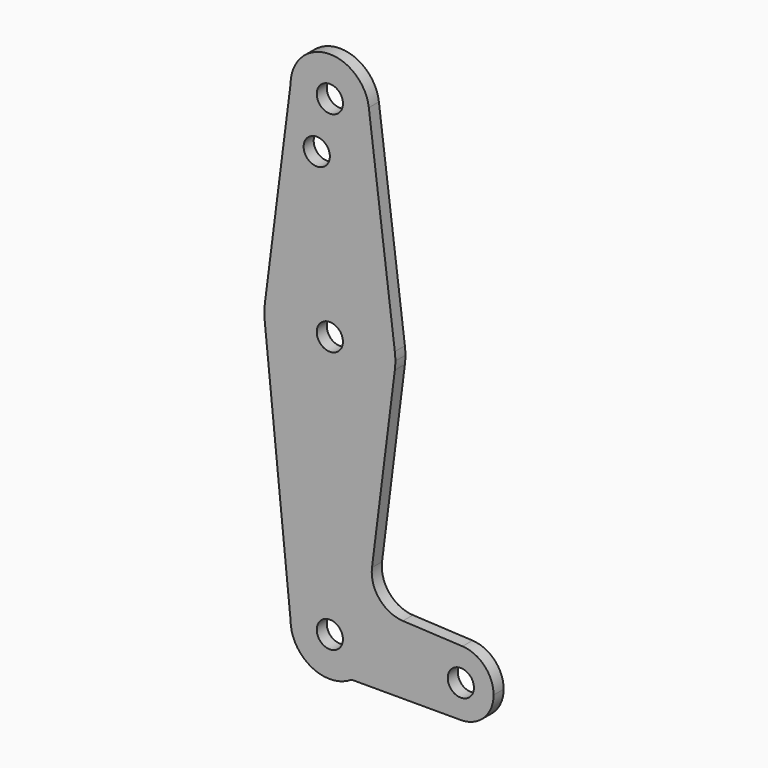
from build123d import *

# Parameters (mm, degrees)
F0_R     = 3.175
F1_DEPTH = 3.048


with BuildPart() as f1:
    # F0 (on Front) → F1 (new body)
    with BuildSketch(Plane.XZ):
        with BuildLine():
            ThreePointArc((-2.38125, 105.077459), (5.832847, 106.769826), (9.525, 114.3))
            ThreePointArc((9.525, 114.3), (9.506305, 114.896483), (9.450293, 115.490625))
            ThreePointArc((9.450293, 115.490625), (-0.596483, 123.806305), (-9.525, 114.3))
            ThreePointArc((-9.525, 114.3), (-7.530174, 108.467153), (-2.38125, 105.077459))
        make_face()
        with Locations((0, 114.3)):
            Circle(F0_R, mode=Mode.SUBTRACT)
        with BuildLine():
            ThreePointArc((9.450293, 115.490625), (9.506305, 114.896483), (9.525, 114.3))
            ThreePointArc((9.525, 114.3), (5.832847, 106.769826), (-2.38125, 105.077459))
            ThreePointArc((-2.38125, 105.077459), (-7.530174, 108.467153), (-9.525, 114.3))
            Line((-9.525, 114.3), (-15.747457, 65.508289))
            ThreePointArc((-15.747457, 65.508289), (0.012053, 79.374995), (15.750488, 65.484375))
            Line((15.750488, 65.484375), (9.450293, 115.490625))
        make_face()
        with BuildLine():
            ThreePointArc((0, 102.003278), (-5.685058, 100.058995), (-2.38125, 105.077459))
            ThreePointArc((-2.38125, 105.077459), (-0.664942, 103.947561), (0, 102.003278))
        make_face(mode=Mode.SUBTRACT)
        with BuildLine():
            ThreePointArc((15.875, 63.5), (15.843841, 64.494139), (15.750488, 65.484375))
            ThreePointArc((15.750488, 65.484375), (0.012053, 79.374995), (-15.747457, 65.508289))
            ThreePointArc((-15.747457, 65.508289), (-15.873668, 63.705667), (-15.794203, 61.90038))
            ThreePointArc((-15.794203, 61.90038), (-0.193615, 47.626181), (15.750488, 61.515625))
            ThreePointArc((15.750488, 61.515625), (15.843841, 62.505861), (15.875, 63.5))
        make_face()
        with Locations((0, 63.5)):
            Circle(F0_R, mode=Mode.SUBTRACT)
        with BuildLine():
            ThreePointArc((15.750488, 61.515625), (-0.193615, 47.626181), (-15.794203, 61.90038))
            Line((-15.794203, 61.90038), (-9.525, 0))
            ThreePointArc((-9.525, 0), (0, 9.525), (9.525, 0))
            ThreePointArc((9.525, 0), (8.392738, -4.504173), (5.265142, -7.9375))
            Line((5.265142, -7.9375), (31.75, -7.9375))
            ThreePointArc((31.75, -7.9375), (23.814982, 0.1985), (32.146875, 7.927572))
            Line((32.146875, 7.927572), (17.706028, 8.650519))
            ThreePointArc((17.706028, 8.650519), (12.011247, 11.482969), (10.215693, 17.58455))
            Line((10.215693, 17.58455), (15.750488, 61.515625))
        make_face()
        with BuildLine():
            ThreePointArc((9.525, 0), (0, 9.525), (-9.525, 0))
            ThreePointArc((-9.525, 0), (-4.504173, -8.392738), (5.265142, -7.9375))
            ThreePointArc((5.265142, -7.9375), (8.392738, -4.504173), (9.525, 0))
        make_face()
        Circle(F0_R, mode=Mode.SUBTRACT)
        with BuildLine():
            ThreePointArc((32.146875, 7.927572), (23.814982, 0.1985), (31.75, -7.9375))
            ThreePointArc((31.75, -7.9375), (37.36266, -5.61266), (39.6875, 0))
            ThreePointArc((39.6875, 0), (37.501265, 5.470544), (32.146875, 7.927572))
        make_face()
        with Locations((31.75, 0)):
            Circle(F0_R, mode=Mode.SUBTRACT)
    extrude(amount=F1_DEPTH)


solid = f1.part
